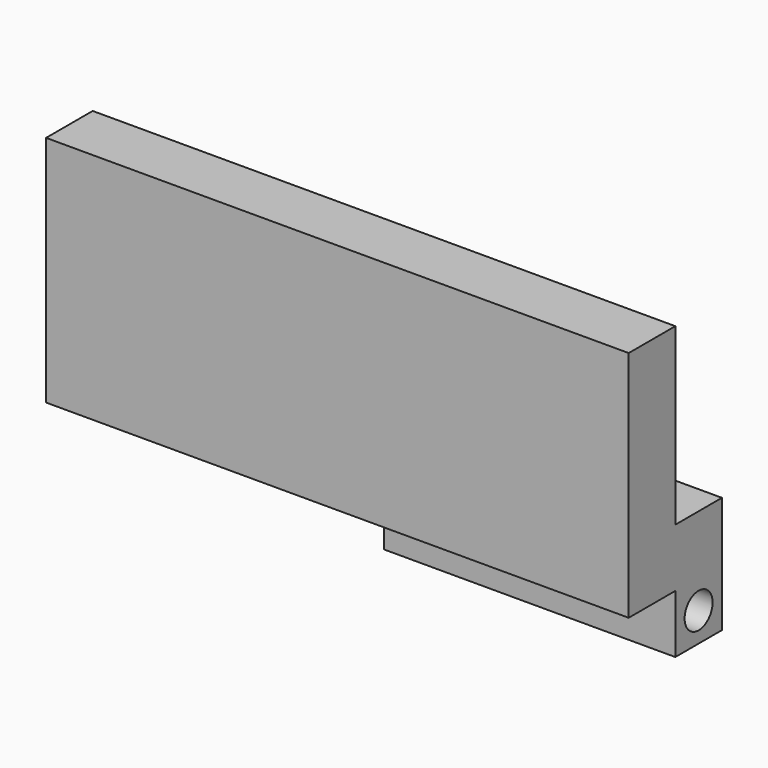
from build123d import *

# Parameters (mm, degrees)
F0_W     = 63.5
F0_H     = 25.4
F1_DEPTH = 6.35
F2_W     = 63.5
F2_H     = 6.35
F3_DEPTH = 6.35
F4_W     = 63.5
F4_H     = 6.35
F5_DEPTH = 6.35
F6_R     = 1.905
F7_DEPTH = 63.501
F8_W     = 31.75
F8_H     = 6.35
F9_DEPTH = 25.4


with BuildPart() as f1:
    # F0 (on Front) → F1 (new body)
    with BuildSketch(Plane.XZ):
        with Locations((-31.75, 12.7)):
            Rectangle(F0_W, F0_H)
    extrude(amount=F1_DEPTH)

    # F2 (on Front) → F3 (join)
    with BuildSketch(Plane.XZ):
        with Locations((-31.75, 3.175)):
            Rectangle(F2_W, F2_H)
    extrude(amount=-F3_DEPTH)

    # F4 (on face) → F5 (join)
    with BuildSketch(Plane(origin=(0, 0, 0), x_dir=(1, 0, 0), z_dir=(0, 0, -1))):
        with Locations((-31.75, -3.175)):
            Rectangle(F4_W, F4_H)
    extrude(amount=F5_DEPTH)

    # F6 (on face) → F7 (cut, through all)
    with BuildSketch(Plane(origin=(-63.5, 0, 0), x_dir=(0, -1, 0), z_dir=(-1, 0, 0))):
        with Locations((-3.175, -3.175)):
            Circle(F6_R)
    extrude(amount=-F7_DEPTH, mode=Mode.SUBTRACT)

    # F8 (on face) → F9 (cut)
    with BuildSketch(Plane.XZ):
        with Locations((-47.625, -3.175)):
            Rectangle(F8_W, F8_H)
    extrude(amount=-F9_DEPTH, mode=Mode.SUBTRACT)


solid = f1.part
